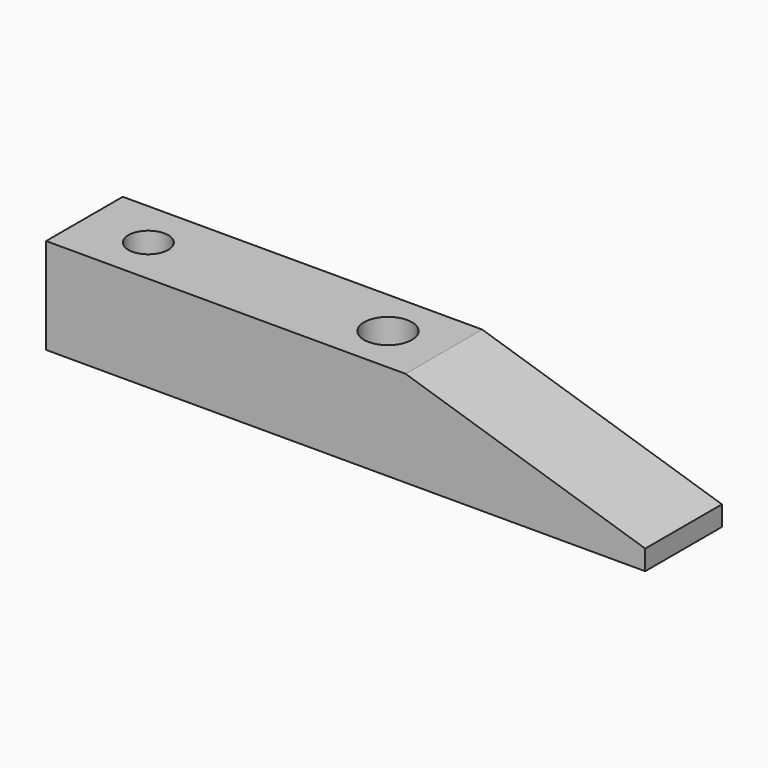
from build123d import *

# Parameters (mm, degrees)
F1_DEPTH = 12
F2_R     = 3
F3_DEPTH = 25
F4_R     = 2.5
F5_DEPTH = 25


with BuildPart() as f1:
    # F0 (on Front) → F1 (new body)
    with BuildSketch(Plane.XZ):
        Polygon((8.649193, 32.64365), (-36.350807, 32.64365), (-36.350807, 20.64365), (38.649193, 20.64365), (38.649193, 23.14365), align=None)
    extrude(amount=F1_DEPTH)

    # F2 (on face) → F3 (cut)
    with BuildSketch(Plane(origin=(0, 0, 20.64365), x_dir=(1, 0, 0), z_dir=(0, 0, -1))):
        with Locations((1.649193, 6)):
            Circle(F2_R)
    extrude(amount=-F3_DEPTH, mode=Mode.SUBTRACT)

    # F4 (on face) → F5 (cut)
    with BuildSketch(Plane(origin=(0, 0, 20.64365), x_dir=(1, 0, 0), z_dir=(0, 0, -1))):
        with Locations((-28.350807, 6)):
            Circle(F4_R)
    extrude(amount=-F5_DEPTH, mode=Mode.SUBTRACT)


solid = f1.part
